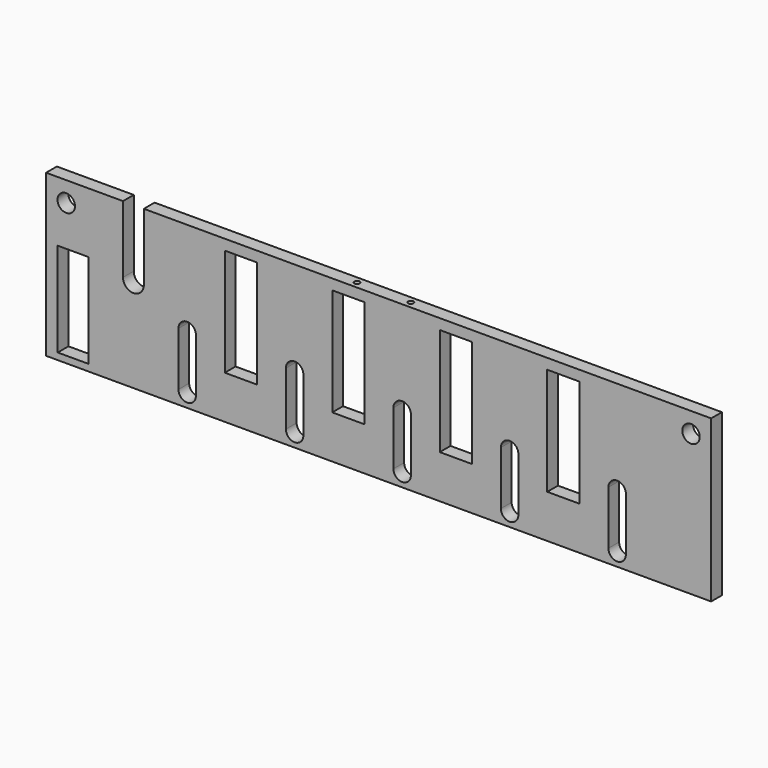
from build123d import *

# Parameters (mm, degrees)
F0_W     = 22.749036
F0_H     = 70
F0_W_2   = 24
F0_H_2   = 80
F0_R     = 6.5
F1_DEPTH = 5
F2_R     = 2
F3_DEPTH = 10


with BuildPart() as f1:
    # F0 (on Front) → F1 (new body, symmetric)
    with BuildSketch(Plane.XZ):
        with BuildLine():
            Line((-247.5, 60), (-247.5, -60))
            Line((-247.5, -60), (247.5, -60))
            Line((247.5, -60), (247.5, 60))
            Line((247.5, 60), (-174.75, 60))
            Line((-174.75, 60), (-174.75, 10))
            ThreePointArc((-174.75, 10), (-182.5, 2.25), (-190.25, 10))
            Line((-190.25, 10), (-190.25, 60))
            Line((-190.25, 60), (-247.5, 60))
        make_face()
        with Locations((-227.449745, -20)):
            Rectangle(F0_W, F0_H, mode=Mode.SUBTRACT)
        with BuildLine():
            ThreePointArc((-136, -50), (-142.5, -56.5), (-149, -50))
            Line((-149, -50), (-149, -10))
            ThreePointArc((-149, -10), (-142.5, -3.5), (-136, -10))
            Line((-136, -10), (-136, -50))
        make_face(mode=Mode.SUBTRACT)
        with BuildLine():
            ThreePointArc((-56, -50), (-62.5, -56.5), (-69, -50))
            Line((-69, -50), (-69, -10))
            ThreePointArc((-69, -10), (-62.5, -3.5), (-56, -10))
            Line((-56, -10), (-56, -50))
        make_face(mode=Mode.SUBTRACT)
        with BuildLine():
            ThreePointArc((24, -50), (17.5, -56.5), (11, -50))
            Line((11, -50), (11, -10))
            ThreePointArc((11, -10), (17.5, -3.5), (24, -10))
            Line((24, -10), (24, -50))
        make_face(mode=Mode.SUBTRACT)
        with BuildLine():
            ThreePointArc((91, -10), (97.5, -3.5), (104, -10))
            Line((104, -10), (104, -50))
            ThreePointArc((104, -50), (97.5, -56.5), (91, -50))
            Line((91, -50), (91, -10))
        make_face(mode=Mode.SUBTRACT)
        with BuildLine():
            ThreePointArc((184, -50), (177.5, -56.5), (171, -50))
            Line((171, -50), (171, -10))
            ThreePointArc((171, -10), (177.5, -3.5), (184, -10))
            Line((184, -10), (184, -50))
        make_face(mode=Mode.SUBTRACT)
        with Locations((-102.5, 12.203116)):
            Rectangle(F0_W_2, F0_H_2, mode=Mode.SUBTRACT)
        with Locations((-22.5, 12.203116)):
            Rectangle(F0_W_2, F0_H_2, mode=Mode.SUBTRACT)
        with Locations((-232.5, 45)):
            Circle(F0_R, mode=Mode.SUBTRACT)
        with Locations((57.5, 12.203116)):
            Rectangle(F0_W_2, F0_H_2, mode=Mode.SUBTRACT)
        with Locations((137.5, 12.203116)):
            Rectangle(F0_W_2, F0_H_2, mode=Mode.SUBTRACT)
        with Locations((232.5, 45)):
            Circle(F0_R, mode=Mode.SUBTRACT)
    extrude(amount=F1_DEPTH, both=True)

    # F2 (on face) → F3 (cut)
    with BuildSketch(Plane.XY.offset(60)):
        with Locations((-20, 0)):
            Circle(F2_R)
        with Locations((20, 0)):
            Circle(F2_R)
    extrude(amount=-F3_DEPTH, mode=Mode.SUBTRACT)


solid = f1.part
